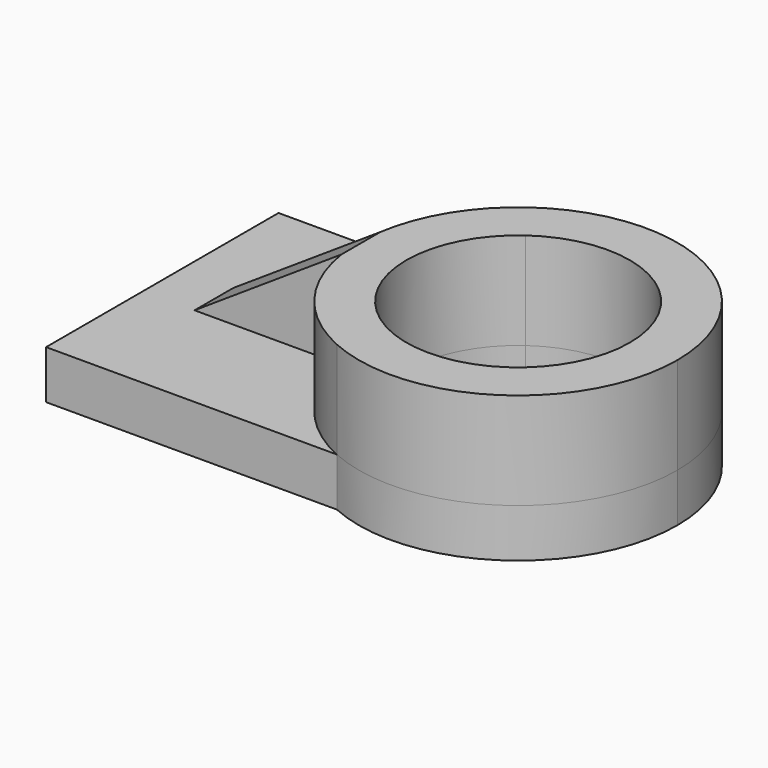
from build123d import *

# Parameters (mm, degrees)
F0_W     = 152.3896604776
F0_H     = 152.2873565555
F1_DEPTH = 25.4
F3_DEPTH = 50.8
F5_DEPTH = 25.4
F7_DEPTH = 50.8
F8_DEPTH = 25.4
F9_DEPTH = 68.072


with BuildPart() as f1:
    # F0 (on Top) → F1 (new body)
    with BuildSketch(Plane.XY):
        with Locations((0.0336691737, 0.0013746321)):
            Rectangle(F0_W, F0_H)
    extrude(amount=F1_DEPTH)

    # F2 (on face) → F3 (join)
    with BuildSketch(Plane.XY.offset(25.4)):
        Polygon((-49.0896850824, 12.7), (-49.0896850824, 0), (-49.0896850824, -12.7), (27.879094705, -12.7), (27.879094705, 12.7), align=None)
    extrude(amount=F3_DEPTH)

    # F4 (on face) → F5 (cut)
    with BuildSketch(Plane.XZ.offset(12.7)):
        Polygon((-49.0896850824, 25.4), (27.879094705, 76.2), (-49.0896850824, 76.2), align=None)
    extrude(amount=-F5_DEPTH, mode=Mode.SUBTRACT)

    # F6 (on face) → F7 (join)
    with BuildSketch(Plane.XY.offset(25.4)):
        with BuildLine():
            Line((27.879094705, 12.7), (27.879094705, -12.7))
            ThreePointArc((27.879094705, -12.7), (43.9814429182, -50.5730961069), (76.2284994125, -76.1423036456))
            Line((76.2284994125, -76.1423036456), (76.2284994125, -47.5807675257))
            ThreePointArc((76.2284994125, -47.5807675257), (51.7952412993, 0.0013746321), (76.2284994125, 47.5835167899))
            Line((76.2284994125, 47.5835167899), (76.2284994125, 76.1450529099))
            ThreePointArc((76.2284994125, 76.1450529099), (43.9805998825, 50.5747391516), (27.8786713028, 12.7))
            Line((27.8786713028, 12.7), (27.879094705, 12.7))
        make_face()
        with BuildLine():
            Line((76.2284994125, -47.5807675257), (76.2284994125, -76.1423036456))
            ThreePointArc((76.2284994125, -76.1423036456), (155.7044526061, -70.0276226689), (193.7801140773, 0.0013746321))
            ThreePointArc((193.7801140773, 0.0013746321), (155.7044526061, 70.0303719332), (76.2284994125, 76.1450529099))
            Line((76.2284994125, 76.1450529099), (76.2284994125, 47.5835167899))
            ThreePointArc((76.2284994125, 47.5835167899), (137.0877616024, 52.084244528), (168.8915508086, 0.0013746321))
            ThreePointArc((168.8915508086, 0.0013746321), (137.0877616024, -52.0814952637), (76.2284994125, -47.5807675257))
        make_face()
    extrude(amount=F7_DEPTH)

    # F8 (add): a face of the model
    f8_faces = [f1.faces().sort_by_distance(p)[0] for p in [
        (191.7389103695, 0.0013746321, 25.4),
    ]]
    extrude(f8_faces, amount=F8_DEPTH)

    # F9 (cut): a face of the model
    f9_faces = [f1.faces().sort_by_distance(p)[0] for p in [
        (66.2561526249, 0.0013746321, 25.4),
    ]]
    extrude(f9_faces, amount=-F9_DEPTH, mode=Mode.SUBTRACT)


solid = f1.part
